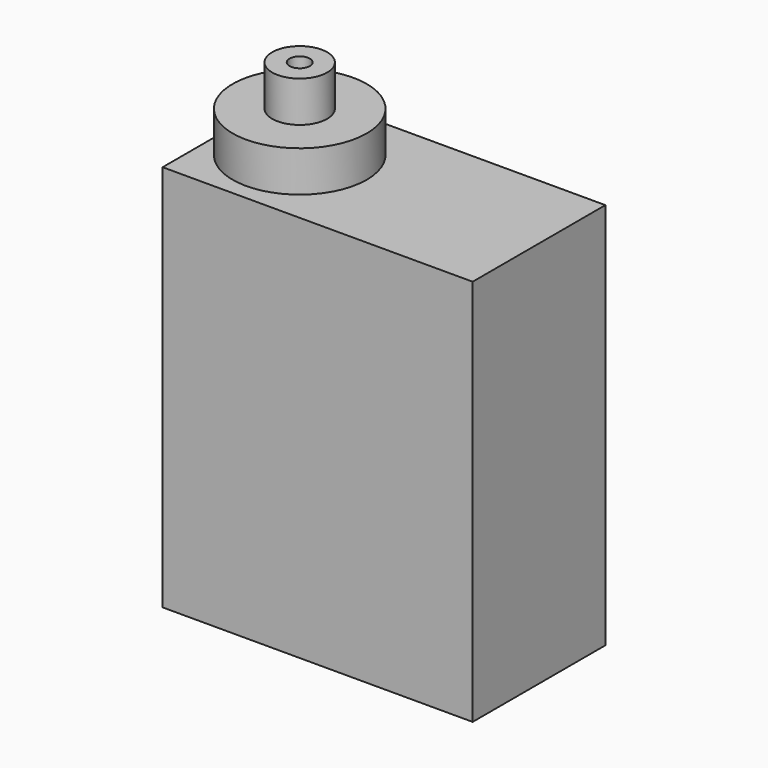
from build123d import *

# Parameters (mm, degrees)
F0_W     = 22.8
F0_H     = 28.5
F1_DEPTH = 12.2
F2_R     = 4.930389
F3_DEPTH = 3
F4_R     = 2.022954
F4_R_2   = 0.744862
F5_DEPTH = 3


with BuildPart() as f1:
    # F0 (on Front) → F1 (new body)
    with BuildSketch(Plane.XZ):
        with Locations((11.4, 14.25)):
            Rectangle(F0_W, F0_H)
    extrude(amount=F1_DEPTH)

    # F2 (on face) → F3 (join)
    with BuildSketch(Plane.XY.offset(28.5)):
        with Locations((5.2, -6.1)):
            Circle(F2_R)
    extrude(amount=F3_DEPTH)

    # F4 (on face) → F5 (join)
    with BuildSketch(Plane.XY.offset(31.5)):
        with Locations((5.2, -6.1)):
            Circle(F4_R)
        with Locations((5.2, -6.1)):
            Circle(F4_R_2, mode=Mode.SUBTRACT)
    extrude(amount=F5_DEPTH)


solid = f1.part
